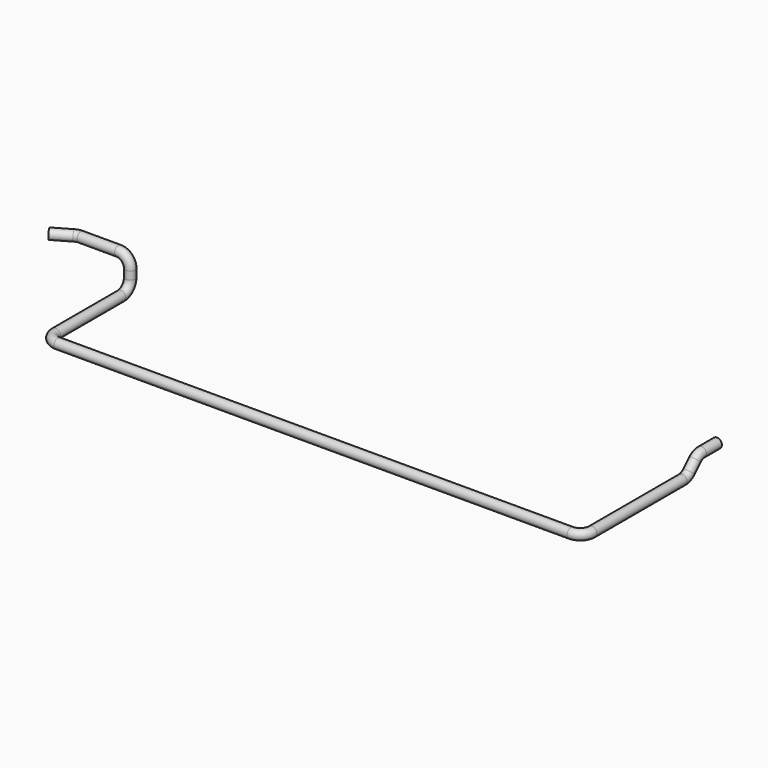
from build123d import *

# Parameters (mm, degrees)
F0_R      = 8.001
F0_R_2    = 5.08
F1_DEPTH  = 31.75
F2_R      = 8.001
F2_R_2    = 5.08
F3_ANGLE  = 45
F4_R      = 8.001
F4_R_2    = 5.08
F5_DEPTH  = 17.78
F6_R      = 8.001
F6_R_2    = 5.08
F7_ANGLE  = 45
F8_R      = 8.001
F8_R_2    = 5.08
F9_DEPTH  = 184.15
F10_R     = 8.001
F10_R_2   = 5.08
F11_ANGLE = 90
F12_R     = 8.001
F12_R_2   = 5.08
F13_DEPTH = 838.2
F14_R     = 8.001
F14_R_2   = 5.08
F15_ANGLE = 90
F16_R     = 8.001
F16_R_2   = 5.08
F17_DEPTH = 133.35
F18_R     = 8.001
F18_R_2   = 5.08
F19_ANGLE = 90
F20_R     = 8.001
F20_R_2   = 5.08
F21_DEPTH = 12.954
F22_R     = 8.001
F22_R_2   = 5.08
F23_ANGLE = 90
F24_R     = 8.001
F24_R_2   = 5.08
F25_DEPTH = 61.468
F26_R     = 8.001
F26_R_2   = 5.08
F27_ANGLE = 30
F28_R     = 8.001
F28_R_2   = 5.08
F29_DEPTH = 31.75


with BuildPart() as f1:
    # F0 (on Front) → F1 (new body)
    with BuildSketch(Plane.XZ):
        Circle(F0_R)
        Circle(F0_R_2, mode=Mode.SUBTRACT)
    extrude(amount=F1_DEPTH)

    # F2 (on face) → F3 (revolve)
    with BuildSketch(Plane.XZ.offset(31.75)):
        Circle(F2_R)
        Circle(F2_R_2, mode=Mode.SUBTRACT)
    revolve(axis=Axis((-0.26794523, -31.75, -19.05), (1, 0, 0)), revolution_arc=F3_ANGLE)

    # F4 (on face) → F5 (join)
    with BuildSketch(Plane(origin=(0, -25.4, -25.4), x_dir=(1, 0, 0), z_dir=(0, -0.7071067812, -0.7071067812))):
        with Locations((0, 28.0302561211)):
            Circle(F4_R)
        with Locations((0, 28.0302561211)):
            Circle(F4_R_2, mode=Mode.SUBTRACT)
    extrude(amount=F5_DEPTH)

    # F6 (on face) → F7 (revolve)
    with BuildSketch(Plane(origin=(0, -37.9723585695, -37.9723585695), x_dir=(1, 0, 0), z_dir=(0, -0.7071067812, -0.7071067812))):
        with Locations((0, 28.0302561211)):
            Circle(F6_R)
        with Locations((0, 28.0302561211)):
            Circle(F6_R_2, mode=Mode.SUBTRACT)
    revolve(axis=Axis((0.1423442736, -71.2631269327, -4.6815902063), (-1, 0, 0)), revolution_arc=F7_ANGLE)

    # F8 (on face) → F9 (join)
    with BuildSketch(Plane.XZ.offset(71.2631269327)):
        with Locations((0, -23.7315902063)):
            Circle(F8_R)
        with Locations((0, -23.7315902063)):
            Circle(F8_R_2, mode=Mode.SUBTRACT)
    extrude(amount=F9_DEPTH)

    # F10 (on face) → F11 (revolve)
    with BuildSketch(Plane.XZ.offset(255.4131269327)):
        with Locations((0, -23.7315902063)):
            Circle(F10_R)
        with Locations((0, -23.7315902063)):
            Circle(F10_R_2, mode=Mode.SUBTRACT)
    revolve(axis=Axis((-19.05, -255.4131269327, -23.0075829988), (0, 0, -1)), revolution_arc=F11_ANGLE)

    # F12 (on face) → F13 (join)
    with BuildSketch(Plane(origin=(-19.05, 0, 0), x_dir=(0, -1, 0), z_dir=(-1, 0, 0))):
        with Locations((274.4631269327, -23.7315902063)):
            Circle(F12_R)
        with Locations((274.4631269327, -23.7315902063)):
            Circle(F12_R_2, mode=Mode.SUBTRACT)
    extrude(amount=F13_DEPTH)

    # F14 (on face) → F15 (revolve)
    with BuildSketch(Plane(origin=(-857.25, 0, 0), x_dir=(0, -1, 0), z_dir=(-1, 0, 0))):
        with Locations((274.4631269327, -23.7315902063)):
            Circle(F14_R)
        with Locations((274.4631269327, -23.7315902063)):
            Circle(F14_R_2, mode=Mode.SUBTRACT)
    revolve(axis=Axis((-857.25, -255.4131269327, -23.2616802678), (0, 0, -1)), revolution_arc=F15_ANGLE)

    # F16 (on face) → F17 (join)
    with BuildSketch(Plane(origin=(0, -255.4131269327, 0), x_dir=(-1, 0, 0), z_dir=(0, 1, 0))):
        with Locations((876.3, -23.7315902063)):
            Circle(F16_R)
        with Locations((876.3, -23.7315902063)):
            Circle(F16_R_2, mode=Mode.SUBTRACT)
    extrude(amount=F17_DEPTH)

    # F18 (on face) → F19 (revolve)
    with BuildSketch(Plane(origin=(0, -122.0631269327, 0), x_dir=(-1, 0, 0), z_dir=(0, 1, 0))):
        with Locations((876.3, -23.7315902063)):
            Circle(F18_R)
        with Locations((876.3, -23.7315902063)):
            Circle(F18_R_2, mode=Mode.SUBTRACT)
    revolve(axis=Axis((-876.4789423416, -122.0631269327, -4.6815902063), (1, 0, 0)), revolution_arc=F19_ANGLE)

    # F20 (on face) → F21 (join)
    with BuildSketch(Plane.XY.offset(-4.6815902063)):
        with Locations((-876.3, -103.0131269327)):
            Circle(F20_R)
        with Locations((-876.3, -103.0131269327)):
            Circle(F20_R_2, mode=Mode.SUBTRACT)
    extrude(amount=F21_DEPTH)

    # F22 (on face) → F23 (revolve)
    with BuildSketch(Plane.XY.offset(8.2724097937)):
        with Locations((-876.3, -103.0131269327)):
            Circle(F22_R)
        with Locations((-876.3, -103.0131269327)):
            Circle(F22_R_2, mode=Mode.SUBTRACT)
    revolve(axis=Axis((-895.35, -103.5171723053, 8.2724097937), (0, -1, 0)), revolution_arc=F23_ANGLE)

    # F24 (on face) → F25 (join)
    with BuildSketch(Plane(origin=(-895.35, 0, 0), x_dir=(0, -1, 0), z_dir=(-1, 0, 0))):
        with Locations((103.0131269327, 27.3224097937)):
            Circle(F24_R)
        with Locations((103.0131269327, 27.3224097937)):
            Circle(F24_R_2, mode=Mode.SUBTRACT)
    extrude(amount=F25_DEPTH)

    # F26 (on face) → F27 (revolve)
    with BuildSketch(Plane(origin=(-956.818, 0, 0), x_dir=(0, -1, 0), z_dir=(-1, 0, 0))):
        with Locations((103.0131269327, 27.3224097937)):
            Circle(F26_R)
        with Locations((103.0131269327, 27.3224097937)):
            Circle(F26_R_2, mode=Mode.SUBTRACT)
    revolve(axis=Axis((-956.818, -122.0631269327, 26.2768556116), (0, 0, 1)), revolution_arc=F27_ANGLE)

    # F28 (on face) → F29 (join)
    with BuildSketch(Plane(origin=(-770.4683843945, -444.8301291323, 0), x_dir=(0.5, -0.8660254038, 0), z_dir=(-0.8660254038, -0.5, 0))):
        with Locations((-391.7492312109, 27.3224097937)):
            Circle(F28_R)
        with Locations((-391.7492312109, 27.3224097937)):
            Circle(F28_R_2, mode=Mode.SUBTRACT)
    extrude(amount=F29_DEPTH)


solid = f1.part
